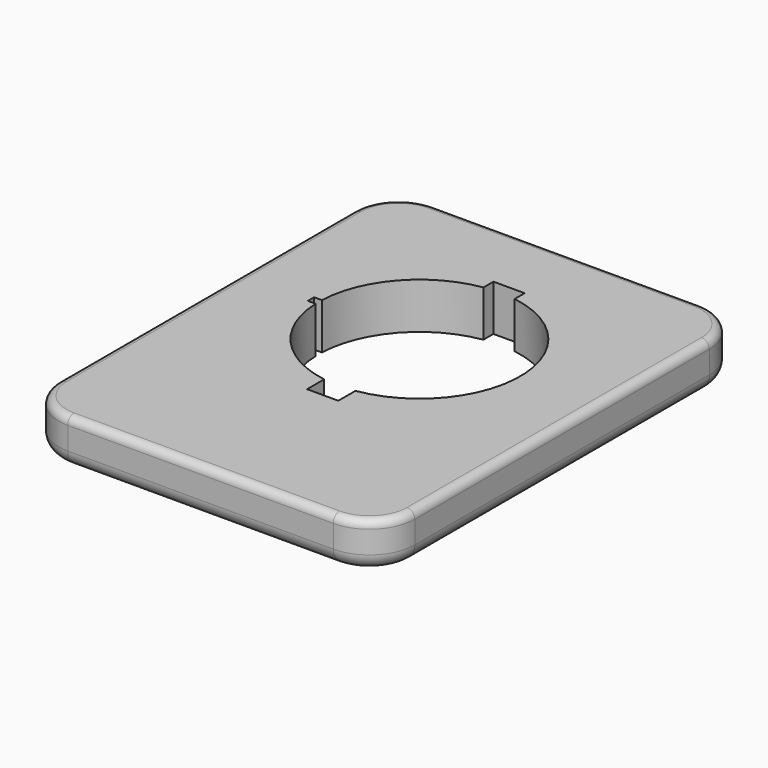
from build123d import *

# Parameters (mm, degrees)
F0_W     = 57.912
F0_H     = 74.5998
F1_DEPTH = 7.493
F2_R     = 7.366
F3_R     = 1.27
F4_R     = 2.54


with BuildPart() as f1:
    # F0 (on Top) → F1 (new body)
    with BuildSketch(Plane.XY):
        with Locations((20.296287, 12.616272)):
            Rectangle(F0_W, F0_H)
        with BuildLine():
            ThreePointArc((17.756287, 3.632269), (8.054824, 8.929138), (3.925598, 19.182172))
            Line((3.925598, 19.182172), (2.655598, 19.182172))
            Line((2.655598, 19.182172), (2.655598, 20.452172))
            Line((2.655598, 20.452172), (3.925598, 20.452172))
            ThreePointArc((3.925598, 20.452172), (8.054824, 30.705205), (17.756287, 36.002075))
            Line((17.756287, 36.002075), (17.756287, 38.034075))
            Line((17.756287, 38.034075), (22.836287, 38.034075))
            Line((22.836287, 38.034075), (22.836287, 36.002075))
            ThreePointArc((22.836287, 36.002075), (36.679287, 19.817172), (22.836287, 3.632269))
            Line((22.836287, 3.632269), (22.836287, 0.153448))
            Line((22.836287, 0.153448), (17.756287, 0.153448))
            Line((17.756287, 0.153448), (17.756287, 3.632269))
        make_face(mode=Mode.SUBTRACT)
    extrude(amount=F1_DEPTH)

    # F2
    f2_edges = [f1.edges().sort_by_distance(p)[0] for p in [
        (-8.659713, -24.683628, 3.7465),
        (49.252287, -24.683628, 3.7465),
        (49.252287, 49.916172, 3.7465),
        (-8.659713, 49.916172, 3.7465),
    ]]
    fillet(f2_edges, radius=F2_R)

    # F3
    f3_edges = [f1.edges().sort_by_distance(p)[0] for p in [
        (-8.659713, 12.616272, 7.493),
    ]]
    fillet(f3_edges, radius=F3_R)

    # F4
    f4_edges = [f1.edges().sort_by_distance(p)[0] for p in [
        (-8.659713, 12.616272, 0),
    ]]
    fillet(f4_edges, radius=F4_R)


solid = f1.part
